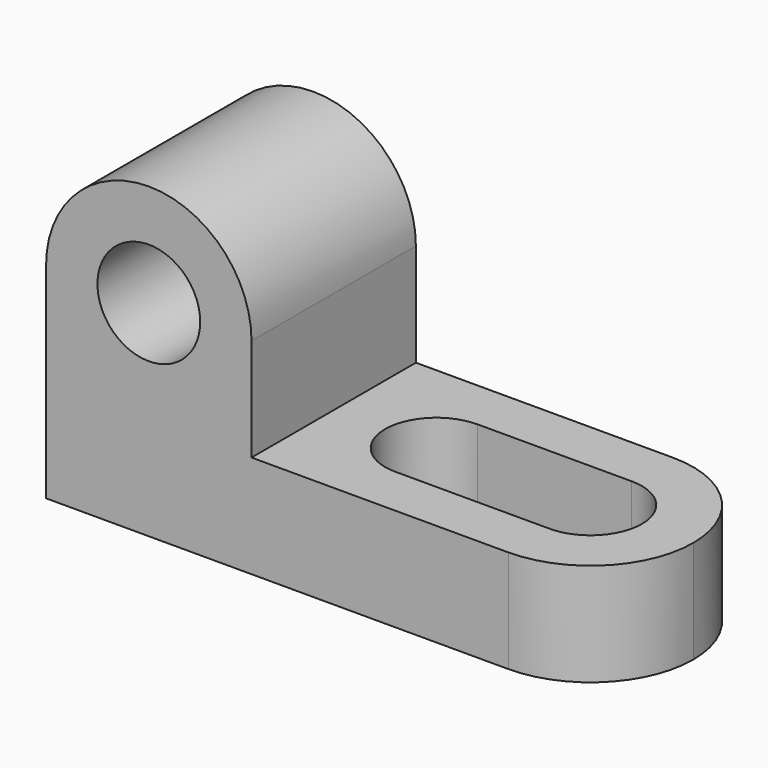
from build123d import *

# Parameters (mm, degrees)
F0_R     = 6.35
F1_DEPTH = 25.4
F3_DEPTH = 25.401
F4_R     = 6.35
F5_DEPTH = 12.701
F7_DEPTH = 12.701


with BuildPart() as f1:
    # F0 (on Front) → F1 (new body)
    with BuildSketch(Plane.XZ):
        with BuildLine():
            Line((-57.15, 38.1), (-69.85, 38.1))
            Line((-69.85, 38.1), (-69.85, 25.4))
            ThreePointArc((-69.85, 25.4), (-66.1302561211, 34.3802561211), (-57.15, 38.1))
        make_face()
        with BuildLine():
            ThreePointArc((-57.15, 38.1), (-66.1302561211, 34.3802561211), (-69.85, 25.4))
            Line((-69.85, 25.4), (-69.85, 0))
            Line((-69.85, 0), (0, 0))
            Line((0, 0), (0, 12.7))
            Line((0, 12.7), (-44.45, 12.7))
            Line((-44.45, 12.7), (-44.45, 25.4))
            ThreePointArc((-44.45, 25.4), (-48.1697438789, 34.3802561211), (-57.15, 38.1))
        make_face()
        with Locations((-57.15, 25.4)):
            Circle(F0_R, mode=Mode.SUBTRACT)
        with BuildLine():
            Line((-44.45, 38.1), (-57.15, 38.1))
            ThreePointArc((-57.15, 38.1), (-48.1697438789, 34.3802561211), (-44.45, 25.4))
            Line((-44.45, 25.4), (-44.45, 38.1))
        make_face()
    extrude(amount=F1_DEPTH)

    # F2 (on face) → F3 (cut, through all)
    with BuildSketch(Plane.XZ.offset(25.4)):
        with BuildLine():
            ThreePointArc((-69.85, 25.4), (-57.15, 38.0796272015), (-44.45, 25.4))
            Line((-44.45, 25.4), (-44.45, 38.1))
            Line((-44.45, 38.1), (-69.85, 38.1))
            Line((-69.85, 38.1), (-69.85, 25.4))
        make_face()
    extrude(amount=-F3_DEPTH, mode=Mode.SUBTRACT)

    # F4 (on face) → F5 (cut, through all)
    with BuildSketch(Plane.XY.offset(12.7)):
        with Locations((-31.75, -12.7)):
            Circle(F4_R)
        with Locations((-12.7, -12.7)):
            Circle(F4_R)
        with BuildLine():
            ThreePointArc((0, -12.7), (-3.7197438789, -21.6802561211), (-12.7, -25.4))
            Line((-12.7, -25.4), (0, -25.4))
            Line((0, -25.4), (0, -12.7))
        make_face()
        with BuildLine():
            ThreePointArc((-12.7, 0), (-3.7197438789, -3.7197438789), (0, -12.7))
            Line((0, -12.7), (0, 0))
            Line((0, 0), (-12.7, 0))
        make_face()
    extrude(amount=-F5_DEPTH, mode=Mode.SUBTRACT)

    # F6 (on face) → F7 (cut, through all)
    with BuildSketch(Plane.XY.offset(12.7)):
        with BuildLine():
            Line((-12.7, -6.35), (-31.75, -6.35))
            ThreePointArc((-31.75, -6.35), (-27.2598719395, -8.2098719395), (-25.4, -12.7))
            ThreePointArc((-25.4, -12.7), (-27.186859646, -17.1159087524), (-31.5418110582, -19.0465862765))
            Line((-31.5418110582, -19.0465862765), (-12.9081889418, -19.0465862765))
            ThreePointArc((-12.9081889418, -19.0465862765), (-19.0491465118, -12.5958915362), (-12.7, -6.35))
        make_face()
    extrude(amount=-F7_DEPTH, mode=Mode.SUBTRACT)


solid = f1.part
